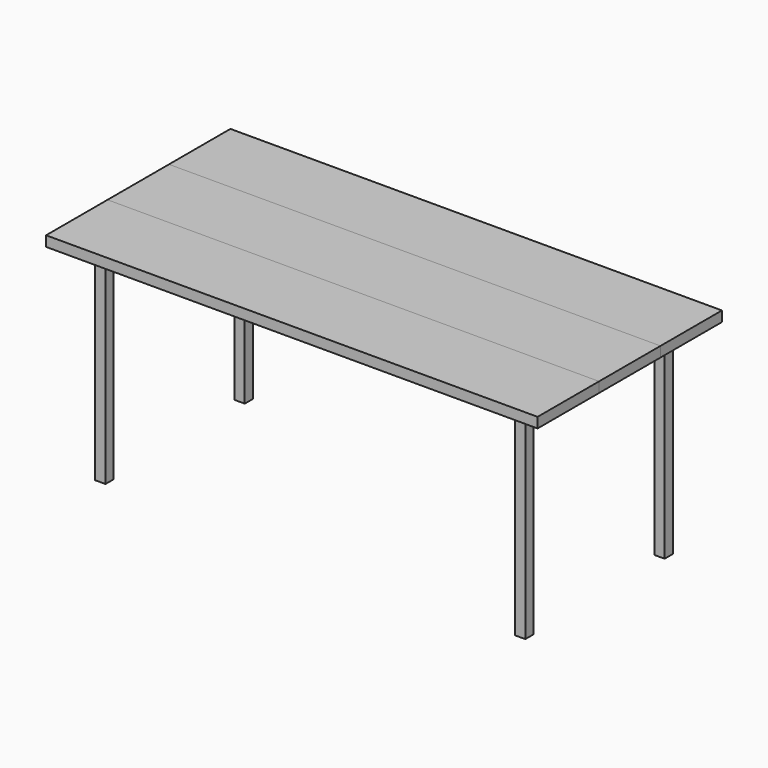
from build123d import *

# Parameters (mm, degrees)
F3_W           = 38.1
F3_H           = 38.1
F4_DEPTH       = 38.1
F5_W           = 38.1
F5_H           = 38.1
F5_W_2         = 31.75
F5_H_2         = 31.75
F6_DEPTH       = 762
F7_W           = 285.75
F7_H           = 38.1
F8_DEPTH       = 914.4
F8_DEPTH_BACK  = 914.4
F9_W           = 285.75
F9_H           = 38.1
F10_DEPTH      = 914.4
F10_DEPTH_BACK = 914.4


with BuildPart() as f2:
    # F2: sweep along a path in F0
    with BuildLine(Plane.XY) as f2_path:
        Line((-781.05, 323.85), (-781.05, -323.85))
        Line((-781.05, -323.85), (781.05, -323.85))
        Line((781.05, -323.85), (781.05, 323.85))
        Line((781.05, 323.85), (-781.05, 323.85))
    # F1 (on Front) → F2 (sweep)
    with BuildSketch(Plane.XZ):
        Polygon((-762, -19.05), (-762, 0), (-762, 19.05), (-800.1, 19.05), (-800.1, -19.05), align=None)
        Polygon((-765.175, 15.875), (-765.175, 0), (-765.175, -15.875), (-796.925, -15.875), (-796.925, 15.875), align=None, mode=Mode.SUBTRACT)
    sweep(path=f2_path.line, transition=Transition.RIGHT)

    # F3 (on face) → F4 (cut)
    with BuildSketch(Plane.XY.offset(19.05)):
        with Locations((-781.05, 323.85)):
            Rectangle(F3_W, F3_H)
        with Locations((781.05, 323.85)):
            Rectangle(F3_W, F3_H)
        with Locations((781.05, -323.85)):
            Rectangle(F3_W, F3_H)
        with Locations((-781.05, -323.85)):
            Rectangle(F3_W, F3_H)
    extrude(amount=-F4_DEPTH, mode=Mode.SUBTRACT)


with BuildPart() as f6:
    # F5 (on face) → F6 (new body)
    with BuildSketch(Plane.XY.offset(19.05)):
        with Locations((-781.05, 323.85)):
            Rectangle(F5_W, F5_H)
        with Locations((-781.05, 323.85)):
            Rectangle(F5_W_2, F5_H_2, mode=Mode.SUBTRACT)
    extrude(amount=-F6_DEPTH)


with BuildPart() as f6b:
    # F5 (on face) → F6, piece 2 (new body)
    with BuildSketch(Plane.XY.offset(19.05)):
        with Locations((781.05, 323.85)):
            Rectangle(F5_W, F5_H)
        with Locations((781.05, 323.85)):
            Rectangle(F5_W_2, F5_H_2, mode=Mode.SUBTRACT)
    extrude(amount=-F6_DEPTH)


with BuildPart() as f6c:
    # F5 (on face) → F6, piece 3 (new body)
    with BuildSketch(Plane.XY.offset(19.05)):
        with Locations((781.05, -323.85)):
            Rectangle(F5_W, F5_H)
        with Locations((781.05, -323.85)):
            Rectangle(F5_W_2, F5_H_2, mode=Mode.SUBTRACT)
    extrude(amount=-F6_DEPTH)


with BuildPart() as f6d:
    # F5 (on face) → F6, piece 4 (new body)
    with BuildSketch(Plane.XY.offset(19.05)):
        with Locations((-781.05, -323.85)):
            Rectangle(F5_W, F5_H)
        with Locations((-781.05, -323.85)):
            Rectangle(F5_W_2, F5_H_2, mode=Mode.SUBTRACT)
    extrude(amount=-F6_DEPTH)


with BuildPart() as f8:
    # F7 (on Right) → F8 (new body, two sides)
    with BuildSketch(Plane.YZ) as f8_sk:
        with Locations((0, 38.1)):
            Rectangle(F7_W, F7_H)
    extrude(amount=F8_DEPTH)
    extrude(f8_sk.sketch, amount=-F8_DEPTH_BACK)


with BuildPart() as f10:
    # F9 (on Right) → F10 (new body, two sides)
    with BuildSketch(Plane.YZ) as f10_sk:
        with Locations((285.75, 38.1)):
            Rectangle(F9_W, F9_H)
    extrude(amount=F10_DEPTH)
    extrude(f10_sk.sketch, amount=-F10_DEPTH_BACK)


with BuildPart() as f10b:
    # F9 (on Right) → F10, piece 2 (new body, two sides)
    with BuildSketch(Plane.YZ) as f10_2_sk:
        with Locations((-285.75, 38.1)):
            Rectangle(F9_W, F9_H)
    extrude(amount=F10_DEPTH)
    extrude(f10_2_sk.sketch, amount=-F10_DEPTH_BACK)


solid = Compound([f2.part, f6.part, f6b.part, f6c.part, f6d.part, f8.part, f10.part, f10b.part])
